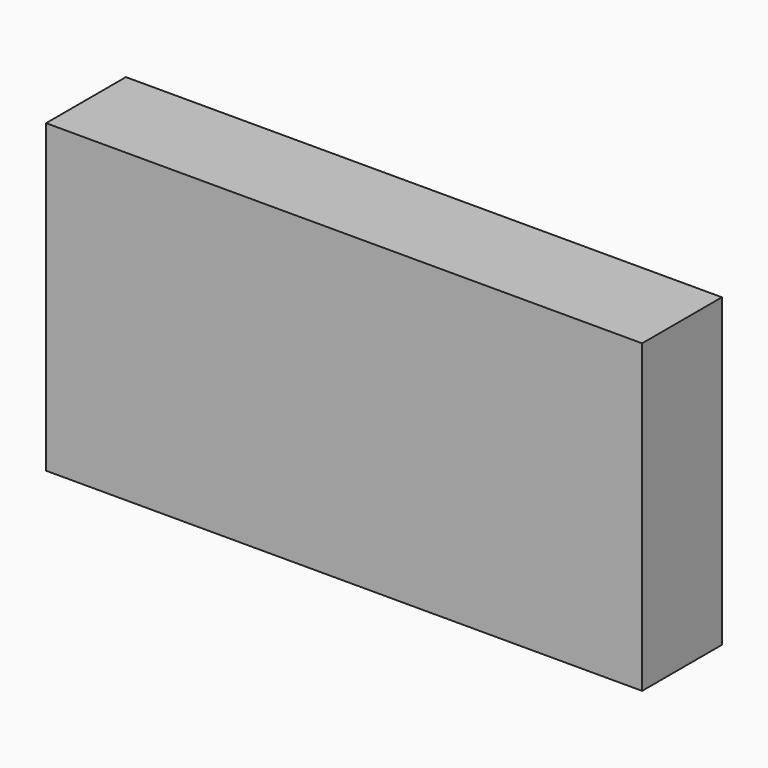
from build123d import *

# Parameters (mm, degrees)
F0_W     = 75.88587
F0_H     = 77.91853
F1_DEPTH = 12.7
F2_T     = -25.4


with BuildPart() as f1:
    # F0 (on Front) → F1 (new body, symmetric)
    with BuildSketch(Plane.XZ):
        with Locations((37.942935, 0)):
            Rectangle(F0_W, F0_H)
        with Locations((-37.942935, 0)):
            Rectangle(F0_W, F0_H)
    extrude(amount=F1_DEPTH, both=True)

    # F2
    f2_openings = [f1.faces().sort_by_distance(p)[0] for p in [
        (0, -12.7, 0),
    ]]
    offset(amount=F2_T, openings=f2_openings)


solid = f1.part
